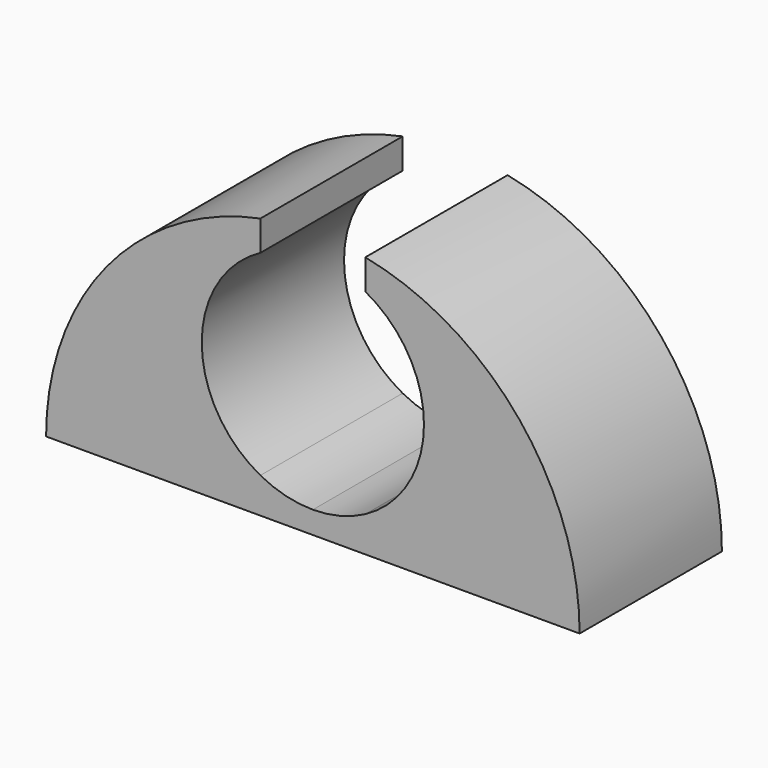
from build123d import *

# Parameters (mm, degrees)
F1_DEPTH = 5


with BuildPart() as f1:
    # F0 (on Front) → F1 (new body, symmetric)
    with BuildSketch(Plane.XZ):
        with BuildLine():
            Line((-2.95, 0), (0, 0))
            Line((0, 0), (0, 1.252587))
            ThreePointArc((0, 1.252587), (-1.520742, 1.440502), (-2.95, 1.992944))
            Line((-2.95, 1.992944), (-2.95, 0))
        make_face()
        with BuildLine():
            Line((0, 0), (2.95, 0))
            Line((2.95, 0), (2.95, 1.992944))
            ThreePointArc((2.95, 1.992944), (1.520742, 1.440502), (0, 1.252587))
            Line((0, 1.252587), (0, 0))
        make_face()
        with BuildLine():
            Line((2.95, 0), (15, 0))
            ThreePointArc((15, 0), (11.602801, 9.506577), (2.95, 14.707056))
            Line((2.95, 14.707056), (2.95, 13.007056))
            ThreePointArc((2.95, 13.007056), (6.247413, 7.5), (2.95, 1.992944))
            Line((2.95, 1.992944), (2.95, 0))
        make_face()
        with BuildLine():
            Line((-15, 0), (-2.95, 0))
            Line((-2.95, 0), (-2.95, 1.992944))
            ThreePointArc((-2.95, 1.992944), (-6.247413, 7.5), (-2.95, 13.007056))
            Line((-2.95, 13.007056), (-2.95, 13.857056))
            Line((-2.95, 13.857056), (-2.95, 14.707056))
            ThreePointArc((-2.95, 14.707056), (-11.602801, 9.506577), (-15, 0))
        make_face()
    extrude(amount=F1_DEPTH, both=True)


solid = f1.part
